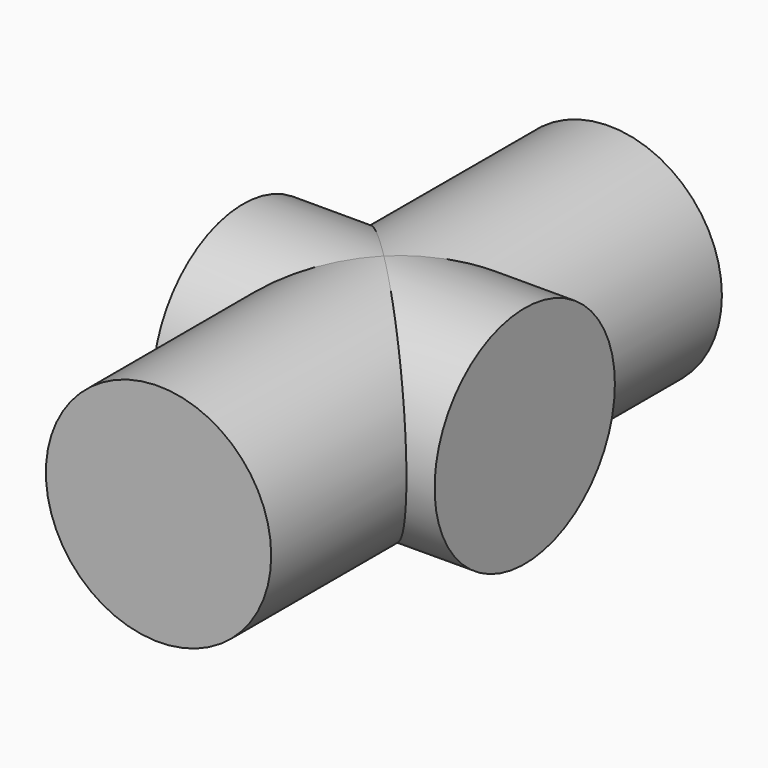
from build123d import *

# Parameters (mm, degrees)
F0_R     = 1000
F2_DEPTH = 2500
F1_R     = 1000
F3_DEPTH = 1250


with BuildPart() as f2:
    # F0 (on Front) → F2 (new body, symmetric)
    with BuildSketch(Plane.XZ):
        Circle(F0_R)
    extrude(amount=F2_DEPTH, both=True)

    # F1 (on Right) → F3 (join, symmetric)
    with BuildSketch(Plane.YZ):
        Circle(F1_R)
    extrude(amount=F3_DEPTH, both=True)


solid = f2.part
